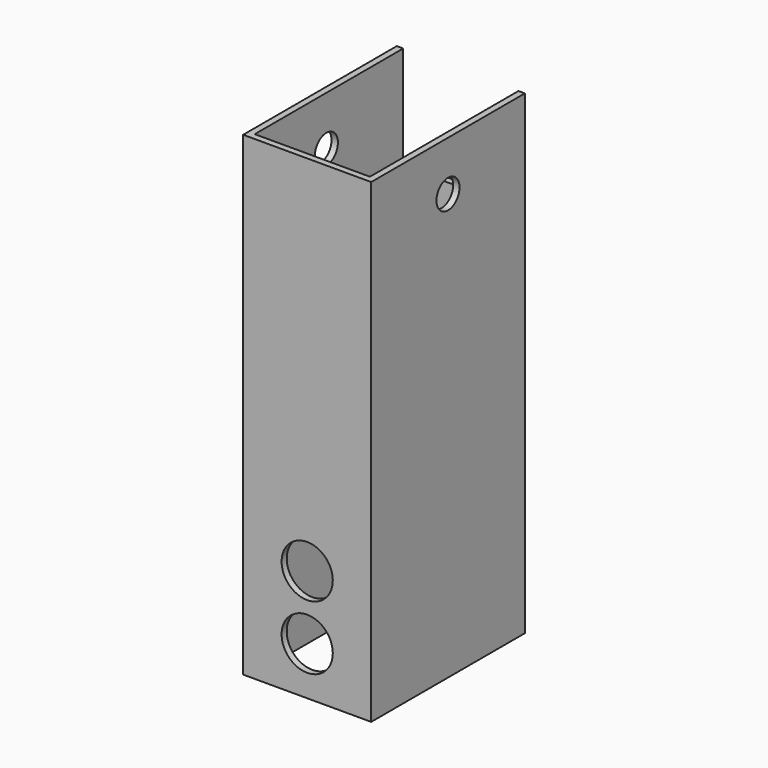
from build123d import *

# Parameters (mm, degrees)
F2_W      = 40
F2_H      = 60
F3_DEPTH  = 148.5
F4_T      = -2
F5_W      = 36
F5_H      = 31
F6_DEPTH  = 2
F7_R      = 4.5
F8_DEPTH  = 40.001
F9_R      = 4.5
F10_DEPTH = 60.001
F9_R_2    = 8
F11_DEPTH = 2


with BuildPart() as f3:
    # F2 (on Top) → F3 (new body)
    with BuildSketch(Plane.XY):
        with Locations((-20, -30)):
            Rectangle(F2_W, F2_H)
    extrude(amount=F3_DEPTH)

    # F4
    f4_openings = [f3.faces().sort_by_distance(p)[0] for p in [
        (-20, -30, 148.5),
        (-20, -30, 0),
    ]]
    offset(amount=F4_T, openings=f4_openings)

    # F5 (on face) → F6 (cut, through all)
    with BuildSketch(Plane(origin=(0, 0, 0), x_dir=(-1, 0, 0), z_dir=(0, 1, 0))):
        with Locations((20, 133)):
            Rectangle(F5_W, F5_H)
    extrude(amount=-F6_DEPTH, mode=Mode.SUBTRACT)

    # F7 (on Right) → F8 (cut, through all)
    with BuildSketch(Plane.YZ):
        with Locations((-30, 133)):
            Circle(F7_R)
    extrude(amount=-F8_DEPTH, mode=Mode.SUBTRACT)

    # F9 (on face) → F10 (cut, through all)
    with BuildSketch(Plane.XZ.offset(60)):
        with Locations((-20, 35)):
            Circle(F9_R)
        with Locations((-20, 15)):
            Circle(F9_R)
    extrude(amount=-F10_DEPTH, mode=Mode.SUBTRACT)

    # F9 (on face) → F11 (cut, through all)
    with BuildSketch(Plane.XZ.offset(60)):
        with Locations((-20, 35)):
            Circle(F9_R_2)
        with Locations((-20, 35)):
            Circle(F9_R, mode=Mode.SUBTRACT)
        with Locations((-20, 15)):
            Circle(F9_R_2)
        with Locations((-20, 15)):
            Circle(F9_R, mode=Mode.SUBTRACT)
    extrude(amount=-F11_DEPTH, mode=Mode.SUBTRACT)


solid = f3.part
